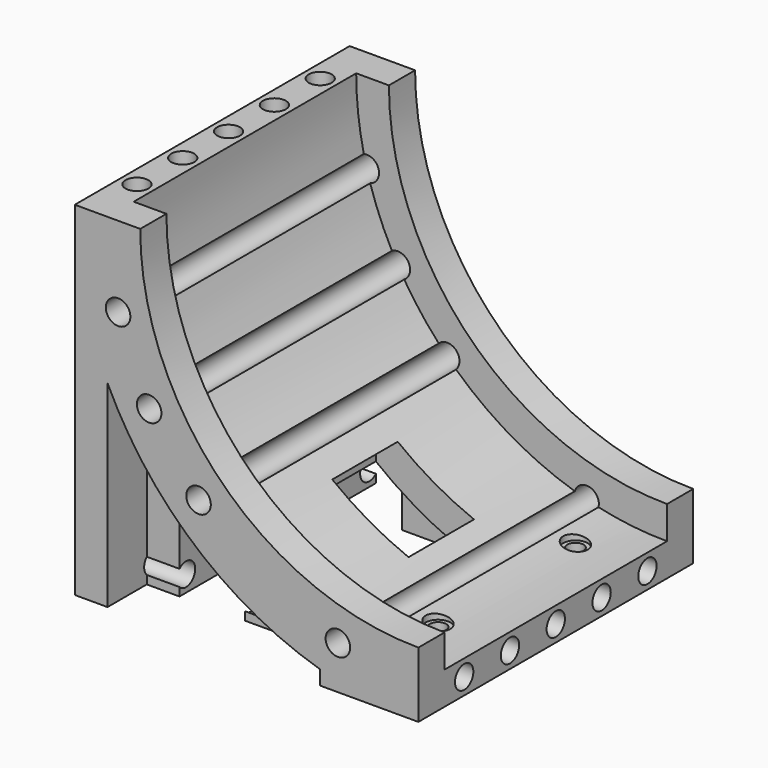
from build123d import *

# Parameters (mm, degrees)
F1_DEPTH  = 210
F2_DEPTH  = 210
F3_DEPTH  = 60
F5_D      = 15
F5_DEPTH  = 40
F5_TIP    = 4.5064546427
F7_DEPTH  = 20
F9_DEPTH  = 20
F10_W     = 10
F10_H     = 20
F11_DEPTH = 210
F12_D     = 10
F12_DEPTH = 40
F12_TIP   = 3.0043030951
F13_R     = 7
F14_DEPTH = 50
F15_R     = 7
F16_DEPTH = 50
F18_D     = 15
F18_DEPTH = 220
F18_TIP   = 4.5064546427
F19_W     = 60
F19_H     = 50
F20_DEPTH = 60
F21_W     = 9.6634474397
F21_H     = 30
F21_W_2   = 10
F22_DEPTH = 20
F23_DEPTH = 25
F24_DEPTH = 31
F25_DEPTH = 37
F26_DEPTH = 45
F27_DEPTH = 120
F28_DEPTH = 105
F29_DEPTH = 200


with BuildPart() as f1:
    # F0 (on Front) → F1 (new body)
    with BuildSketch(Plane.XZ):
        with BuildLine():
            Line((-190, 0), (-210, 0))
            ThreePointArc((-210, 0), (-148.4924240492, -148.4924240492), (0, -210))
            Line((0, -210), (0, -190))
            ThreePointArc((0, -190), (-134.3502884254, -134.3502884254), (-190, 0))
        make_face()
    extrude(amount=F1_DEPTH)

    # F2 (add): a face of the model
    f2_faces = [f1.faces().sort_by_distance(p)[0] for p in [
        (-200, -105, 0),
    ]]
    extrude(f2_faces, amount=-F2_DEPTH)

    # F3 (add): a face of the model
    f3_faces = [f1.faces().sort_by_distance(p)[0] for p in [
        (0, -105, -200),
    ]]
    extrude(f3_faces, amount=-F3_DEPTH)

    # F5
    with Locations(Plane(origin=(0, 0, -210), x_dir=(1, 0, 0), z_dir=(0, 0, -1))):
        with Locations((-30, 157.5), (-30, 52.5)):
            Hole(F5_D / 2, depth=F5_DEPTH)
            with Locations((0, 0, -(F5_DEPTH + F5_TIP / 2))):  # 118° drill point
                Cone(0, F5_D / 2, F5_TIP, mode=Mode.SUBTRACT)

    # F6 (on face) → F7 (join)
    with BuildSketch(Plane.XZ.offset(210)):
        with BuildLine():
            ThreePointArc((0, -170), (-120.2081528017, -120.2081528017), (-170, 0))
            Line((-170, 0), (-190, 0))
            ThreePointArc((-190, 0), (-134.3502884254, -134.3502884254), (0, -190))
            Line((0, -190), (0, -170))
        make_face()
    extrude(amount=-F7_DEPTH)

    # F8 (on face) → F9 (join)
    with BuildSketch(Plane(origin=(0, 0, 0), x_dir=(-1, 0, 0), z_dir=(0, 1, 0))):
        with BuildLine():
            Line((190, 0), (170, 0))
            ThreePointArc((170, 0), (120.2081528017, -120.2081528017), (0, -170))
            Line((0, -170), (0, -190))
            ThreePointArc((0, -190), (134.3502884254, -134.3502884254), (190, 0))
        make_face()
    extrude(amount=-F9_DEPTH)

    # F10 (on face) → F11 (join)
    with BuildSketch(Plane.XZ.offset(210)):
        with Locations((-35, -200)):
            Rectangle(F10_W, F10_H)
        with Locations((-25, -200)):
            Rectangle(F10_W, F10_H)
    extrude(amount=-F11_DEPTH)

    # F12
    with Locations(Plane(origin=(0, 0, -210), x_dir=(1, 0, 0), z_dir=(0, 0, -1))):
        with Locations((-30, 157.5), (-30, 52.5)):
            Hole(F12_D / 2, depth=F12_DEPTH)
            with Locations((0, 0, -(F12_DEPTH + F12_TIP / 2))):  # 118° drill point
                Cone(0, F12_D / 2, F12_TIP, mode=Mode.SUBTRACT)

    # F13 (on face) → F14 (cut)
    with BuildSketch(Plane.YZ):
        with Locations((-140, -200)):
            Circle(F13_R)
        with Locations((-105, -200)):
            Circle(F13_R)
        with Locations((-70, -200)):
            Circle(F13_R)
    extrude(amount=-F14_DEPTH, mode=Mode.SUBTRACT)

    # F15 (on face) → F16 (cut)
    with BuildSketch(Plane.XY):
        with Locations((-200, -35)):
            Circle(F15_R)
        with Locations((-200, -70)):
            Circle(F15_R)
        with Locations((-200, -105)):
            Circle(F15_R)
        with Locations((-200, -140)):
            Circle(F15_R)
        with Locations((-200, -175)):
            Circle(F15_R)
    extrude(amount=-F16_DEPTH, mode=Mode.SUBTRACT)

    # F18
    with Locations(Plane.XZ.offset(210)):
        with Locations((-183.5259069949, -49.1756185695), (-164.544826719, -95), (-134.3502884254, -134.3502884254), (-49.1756185695, -183.5259069949)):
            Hole(F18_D / 2, depth=F18_DEPTH)
            with Locations((0, 0, -(F18_DEPTH + F18_TIP / 2))):  # 118° drill point
                Cone(0, F18_D / 2, F18_TIP, mode=Mode.SUBTRACT)

    # F19 (on face) → F20 (cut)
    with BuildSketch(Plane(origin=(0, 0, -210), x_dir=(1, 0, 0), z_dir=(0, 0, -1))):
        with Locations((-100, 105)):
            Rectangle(F19_W, F19_H)
    extrude(amount=-F20_DEPTH, mode=Mode.SUBTRACT)

    # F21 (on face) → F22 (join)
    with BuildSketch(Plane(origin=(0, 0, -210), x_dir=(1, 0, 0), z_dir=(0, 0, -1))):
        with Locations((-65.1682762802, 45)):
            Rectangle(F21_W, F21_H)
        with Locations((-75, 165)):
            Rectangle(F21_W_2, F21_H)
        with Locations((-65.1682762802, 165)):
            Rectangle(F21_W, F21_H)
        with Locations((-75, 45)):
            Rectangle(F21_W_2, F21_H)
        with Locations((-85, 165)):
            Rectangle(F21_W_2, F21_H)
        with Locations((-85, 45)):
            Rectangle(F21_W_2, F21_H)
    extrude(amount=-F22_DEPTH)

    # F21 (on face) → F23 (join)
    with BuildSketch(Plane(origin=(0, 0, -210), x_dir=(1, 0, 0), z_dir=(0, 0, -1))):
        with Locations((-95, 165)):
            Rectangle(F21_W_2, F21_H)
        with Locations((-95, 45)):
            Rectangle(F21_W_2, F21_H)
    extrude(amount=-F23_DEPTH)

    # F21 (on face) → F24 (join)
    with BuildSketch(Plane(origin=(0, 0, -210), x_dir=(1, 0, 0), z_dir=(0, 0, -1))):
        with Locations((-105, 165)):
            Rectangle(F21_W_2, F21_H)
        with Locations((-105, 45)):
            Rectangle(F21_W_2, F21_H)
    extrude(amount=-F24_DEPTH)

    # F21 (on face) → F25 (join)
    with BuildSketch(Plane(origin=(0, 0, -210), x_dir=(1, 0, 0), z_dir=(0, 0, -1))):
        with Locations((-115, 165)):
            Rectangle(F21_W_2, F21_H)
        with Locations((-115, 45)):
            Rectangle(F21_W_2, F21_H)
    extrude(amount=-F25_DEPTH)

    # F21 (on face) → F26 (join)
    with BuildSketch(Plane(origin=(0, 0, -210), x_dir=(1, 0, 0), z_dir=(0, 0, -1))):
        with Locations((-125, 45)):
            Rectangle(F21_W_2, F21_H)
        with Locations((-125, 165)):
            Rectangle(F21_W_2, F21_H)
    extrude(amount=-F26_DEPTH)

    # F21 (on face) → F27 (join)
    with BuildSketch(Plane(origin=(0, 0, -210), x_dir=(1, 0, 0), z_dir=(0, 0, -1))):
        with Locations((-185, 165)):
            Rectangle(F21_W_2, F21_H)
        with Locations((-185, 45)):
            Rectangle(F21_W_2, F21_H)
    extrude(amount=-F27_DEPTH)

    # F21 (on face) → F28 (join)
    with BuildSketch(Plane(origin=(0, 0, -210), x_dir=(1, 0, 0), z_dir=(0, 0, -1))):
        with Locations((-175, 165)):
            Rectangle(F21_W_2, F21_H)
        with Locations((-175, 45)):
            Rectangle(F21_W_2, F21_H)
    extrude(amount=-F28_DEPTH)

    # F13 (on face) → F29 (cut)
    with BuildSketch(Plane.YZ):
        with Locations((-35, -200)):
            Circle(F13_R)
        with Locations((-175, -200)):
            Circle(F13_R)
    extrude(amount=-F29_DEPTH, mode=Mode.SUBTRACT)


solid = f1.part
